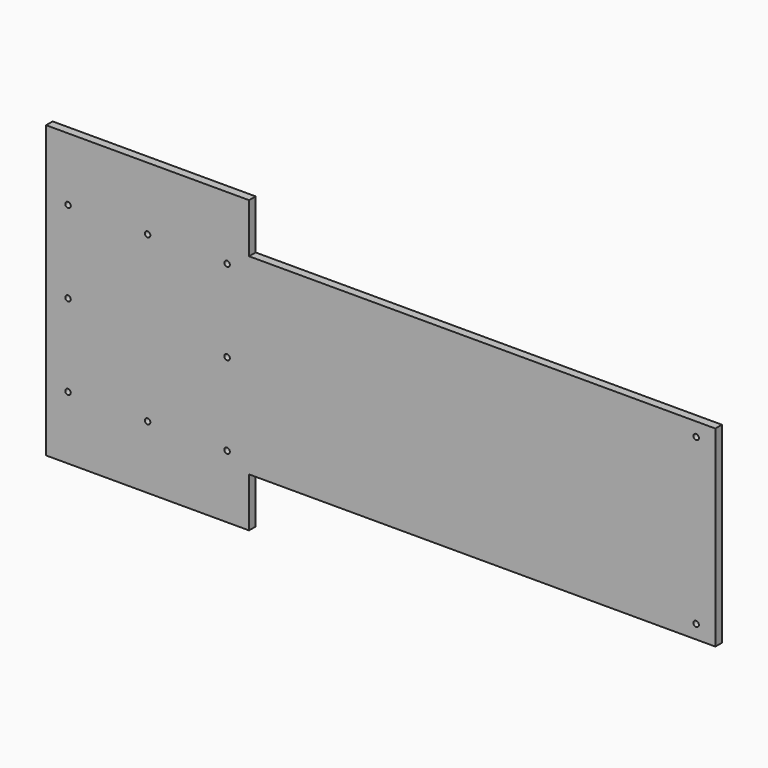
from build123d import *

# Parameters (mm, degrees)
F0_W     = 170
F0_H     = 35
F1_DEPTH = 3
F2_D     = 2
F2_DEPTH = 40
F3_D     = 2
F3_DEPTH = 40
F5_D     = 2
F5_DEPTH = 40


with BuildPart() as f1:
    # F0 (on Front) → F1 (new body)
    with BuildSketch(Plane.XZ):
        Polygon((37, 35), (37, 53), (-37, 53), (-37, -53), (37, -53), (37, -35), (37, 0), align=None)
        with Locations((122, -17.5)):
            Rectangle(F0_W, F0_H)
        with Locations((122, 17.5)):
            Rectangle(F0_W, F0_H)
    extrude(amount=F1_DEPTH)

    # F2
    with Locations(Plane(origin=(0, 0, 0), x_dir=(1, 0, 0), z_dir=(0, 1, 0))):
        with Locations((-29, 0), (29, 0)):
            Hole(F2_D / 2, depth=F2_DEPTH)

    # F3
    with Locations(Plane(origin=(0, 0, 0), x_dir=(1, 0, 0), z_dir=(0, 1, 0))):
        with Locations((29, -30), (-29, -30), (29, 30), (-29, 30)):
            Hole(F3_D / 2, depth=F3_DEPTH)

    # F5
    with Locations(Plane(origin=(0, 0, 0), x_dir=(1, 0, 0), z_dir=(0, 1, 0))):
        with Locations((0, -30), (0, 30), (200, -30), (200, 30)):
            Hole(F5_D / 2, depth=F5_DEPTH)


solid = f1.part
